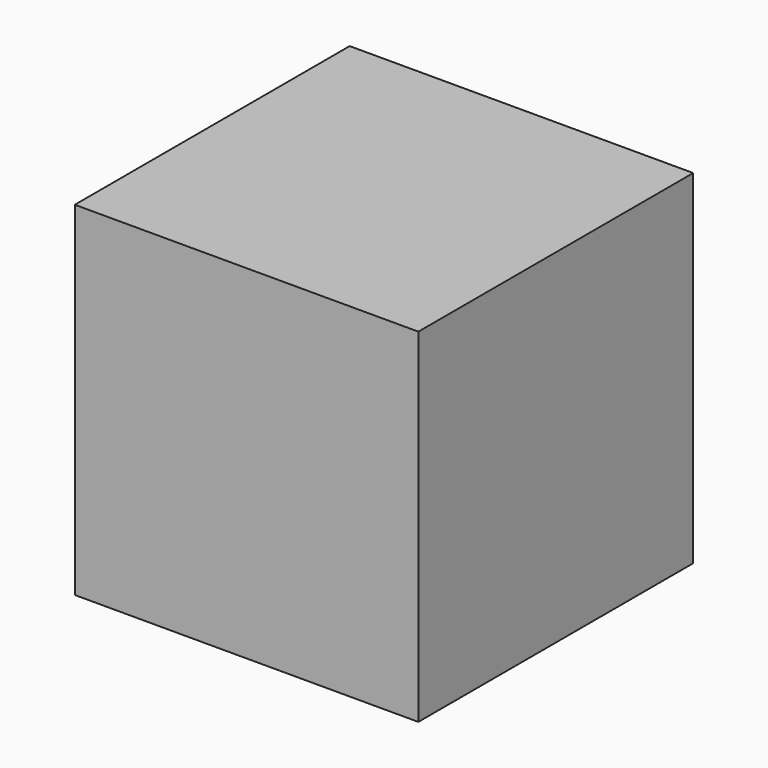
from build123d import *

# Parameters (mm, degrees)
CUBE_W     = 23
CUBE_H     = 23
CUBE_DEPTH = 23


with BuildPart() as part:
    # Cube → Cube (new body)
    with BuildSketch(Plane.XY):
        with Locations((11.5, 11.5)):
            Rectangle(CUBE_W, CUBE_H)
    extrude(amount=CUBE_DEPTH)


solid = part.part
